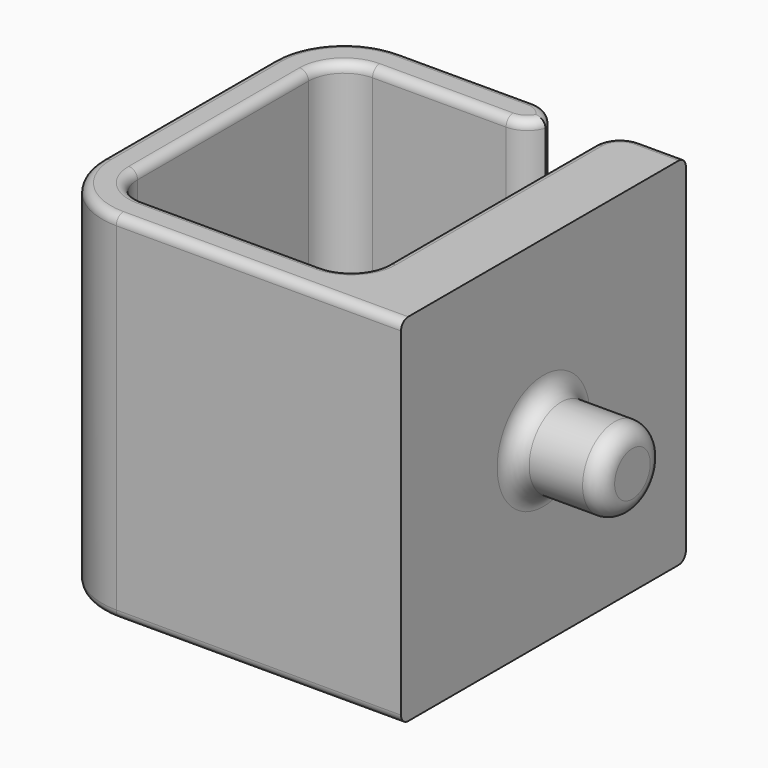
from build123d import *

# Parameters (mm, degrees)
F1_DEPTH = 20
F2_R     = 2.25
F3_DEPTH = 5
F4_R     = 1
F5_R     = 0.5


with BuildPart() as f1:
    # F0 (on Top) → F1 (new body)
    with BuildSketch(Plane.XY):
        with BuildLine():
            Line((-6, -10), (10, -10))
            Line((10, -10), (10, 10))
            Line((10, 10), (7.5, 10))
            ThreePointArc((7.5, 10), (6.43934, 9.56066), (6, 8.5))
            Line((6, 8.5), (6, -6))
            ThreePointArc((6, -6), (5.414214, -7.414214), (4, -8))
            Line((4, -8), (-6, -8))
            ThreePointArc((-6, -8), (-7.414214, -7.414214), (-8, -6))
            Line((-8, -6), (-8, 6))
            ThreePointArc((-8, 6), (-7.414214, 7.414214), (-6, 8))
            Line((-6, 8), (1.5, 8))
            ThreePointArc((1.5, 8), (2.366025, 8.275255), (2.914214, 9))
            ThreePointArc((2.914214, 9), (2.366025, 9.724745), (1.5, 10))
            Line((1.5, 10), (-6, 10))
            ThreePointArc((-6, 10), (-8.828427, 8.828427), (-10, 6))
            Line((-10, 6), (-10, -6))
            ThreePointArc((-10, -6), (-8.828427, -8.828427), (-6, -10))
        make_face()
    extrude(amount=F1_DEPTH)

    # F2 (on face) → F3 (join)
    with BuildSketch(Plane.YZ.offset(10)):
        with Locations((0, 10)):
            Circle(F2_R)
    extrude(amount=F3_DEPTH)

    # F4
    f4_edges = [f1.edges().sort_by_distance(p)[0] for p in [
        (15, -2.25, 10),
        (10, -2.25, 10),
    ]]
    fillet(f4_edges, radius=F4_R)

    # F5
    f5_edges = [f1.edges().sort_by_distance(p)[0] for p in [
        (-8, 0, 20),
        (-8, 0, 0),
        (-10, 0, 20),
        (-10, 0, 0),
    ]]
    fillet(f5_edges, radius=F5_R)


solid = f1.part
